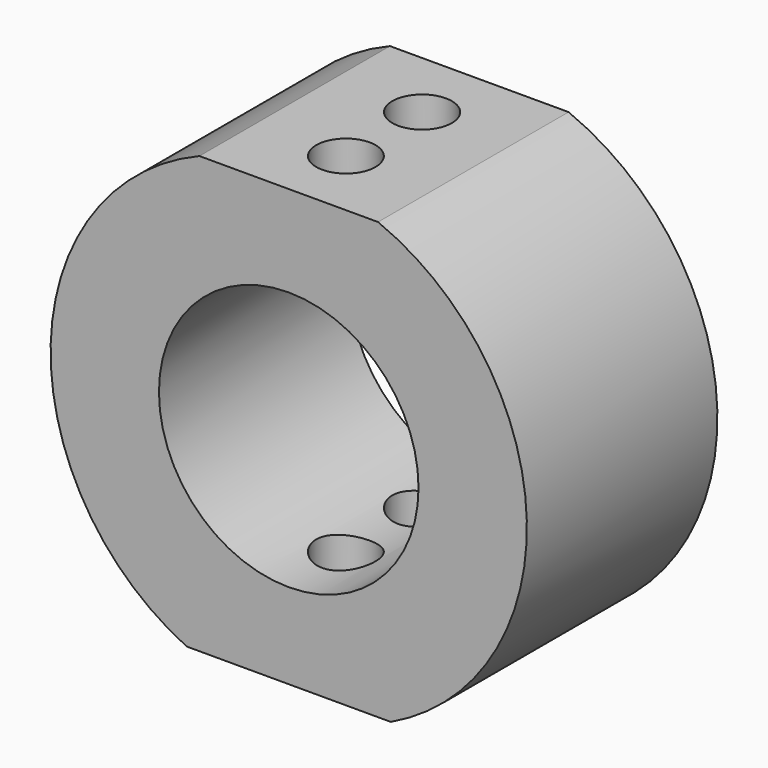
from build123d import *

# Parameters (mm, degrees)
F0_R     = 1.5875
F1_DEPTH = 25.4
F2_R     = 3.175
F2_R_2   = 3.161961
F3_DEPTH = 46.496531
F4_R     = 13.843
F5_DEPTH = 25.401


with BuildPart() as f1:
    # F0 (on Front) → F1 (new body)
    with BuildSketch(Plane.XZ):
        with BuildLine():
            Line((9.525, 23.54643), (-9.525, 23.54643))
            ThreePointArc((-9.525, 23.54643), (-25.38913, 0.743025), (-10.885714, -22.949101))
            Line((-10.885714, -22.949101), (10.885714, -22.949101))
            ThreePointArc((10.885714, -22.949101), (25.38913, 0.743025), (9.525, 23.54643))
        make_face()
        Circle(F0_R, mode=Mode.SUBTRACT)
    extrude(amount=F1_DEPTH)

    # F2 (on face) → F3 (cut, through all)
    with BuildSketch(Plane.XY.offset(23.54643)):
        with Locations((0, -7.62)):
            Circle(F2_R)
        with Locations((0, -17.78)):
            Circle(F2_R_2)
    extrude(amount=-F3_DEPTH, mode=Mode.SUBTRACT)

    # F4 (on face) → F5 (cut, through all)
    with BuildSketch(Plane.XZ.offset(25.4)):
        Circle(F4_R)
    extrude(amount=-F5_DEPTH, mode=Mode.SUBTRACT)


solid = f1.part
